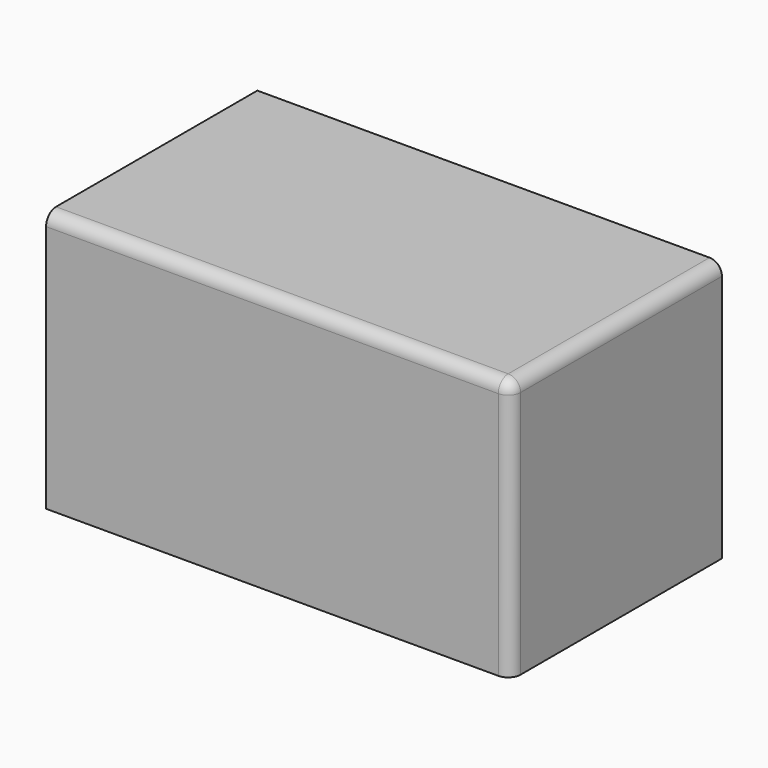
from build123d import *

# Parameters (mm, degrees)
F0_W     = 137.3012214899
F0_H     = 106.4546853304
F1_DEPTH = 105.156
F2_DEPTH = 50
F3_R     = 5


with BuildPart() as f1:
    # F0 (on Top) → F1 (new body)
    with BuildSketch(Plane.XY):
        with Locations((68.650610745, 20.9824740887)):
            Rectangle(F0_W, F0_H)
    extrude(amount=F1_DEPTH)

    # F2 (add): a face of the model
    f2_faces = [f1.faces().sort_by_distance(p)[0] for p in [
        (137.3012214899, 20.9824740887, 52.578),
    ]]
    extrude(f2_faces, amount=F2_DEPTH)

    # F3
    f3_edges = [f1.edges().sort_by_distance(p)[0] for p in [
        (93.650611, -32.244869, 105.156),
        (187.301221, 20.982474, 105.156),
        (187.301221, -32.244869, 52.578),
    ]]
    fillet(f3_edges, radius=F3_R)


solid = f1.part
